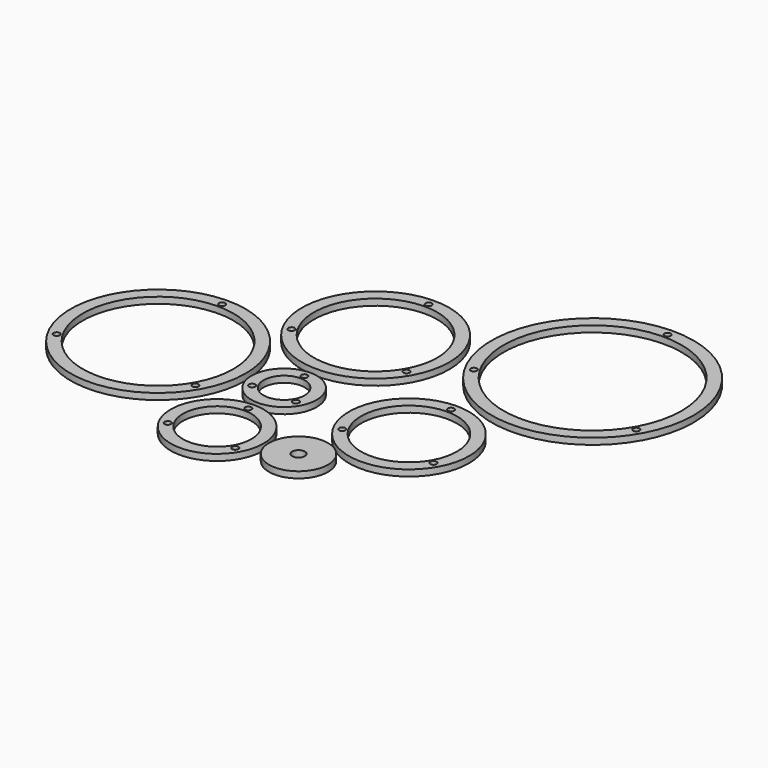
from build123d import *

# Parameters (mm, degrees)
F0_R     = 14
F0_R_2   = 3
F0_R_3   = 22
F0_R_4   = 1.5
F0_R_5   = 16.25
F0_R_6   = 41.5
F0_R_7   = 35.75
F0_R_8   = 15.5
F0_R_9   = 9.75
F0_R_10  = 28.5
F0_R_11  = 22.75
F0_R_12  = 35
F0_R_13  = 29.25
F0_R_14  = 48
F0_R_15  = 42.25
F1_DEPTH = 3


with BuildPart() as f1:
    # F0 (on Top) → F1 (new body)
    with BuildSketch(Plane.XY):
        with Locations((37.288688, -38.067583)):
            Circle(F0_R)
        with Locations((37.288688, -38.067583)):
            Circle(F0_R_2, mode=Mode.SUBTRACT)
        with Locations((0, -39.74187)):
            Circle(F0_R_3)
        with Locations((-16.02147, -48.99187)):
            Circle(F0_R_4, mode=Mode.SUBTRACT)
        with Locations((0, -39.74187)):
            Circle(F0_R_5, mode=Mode.SUBTRACT)
        with Locations((0, -21.24187)):
            Circle(F0_R_4, mode=Mode.SUBTRACT)
        with Locations((16.02147, -48.99187)):
            Circle(F0_R_4, mode=Mode.SUBTRACT)
        with Locations((-59.803776, 0)):
            Circle(F0_R_6)
        with Locations((-92.712742, -19)):
            Circle(F0_R_4, mode=Mode.SUBTRACT)
        with Locations((-26.894811, -19)):
            Circle(F0_R_4, mode=Mode.SUBTRACT)
        with Locations((-59.803776, 0)):
            Circle(F0_R_7, mode=Mode.SUBTRACT)
        with Locations((-59.803776, 38)):
            Circle(F0_R_4, mode=Mode.SUBTRACT)
        Circle(F0_R_8)
        with Locations((-10.392305, -6)):
            Circle(F0_R_4, mode=Mode.SUBTRACT)
        with Locations((10.392305, -6)):
            Circle(F0_R_4, mode=Mode.SUBTRACT)
        Circle(F0_R_9, mode=Mode.SUBTRACT)
        with Locations((0, 12)):
            Circle(F0_R_4, mode=Mode.SUBTRACT)
        with Locations((59.236389, 0)):
            Circle(F0_R_10)
        with Locations((37.585754, -12.5)):
            Circle(F0_R_4, mode=Mode.SUBTRACT)
        with Locations((59.236389, 0)):
            Circle(F0_R_11, mode=Mode.SUBTRACT)
        with Locations((59.236389, 25)):
            Circle(F0_R_4, mode=Mode.SUBTRACT)
        with Locations((80.887024, -12.5)):
            Circle(F0_R_4, mode=Mode.SUBTRACT)
        with Locations((0, 54.245155)):
            Circle(F0_R_12)
        with Locations((-27.2798, 38.495155)):
            Circle(F0_R_4, mode=Mode.SUBTRACT)
        with Locations((0, 54.245155)):
            Circle(F0_R_13, mode=Mode.SUBTRACT)
        with Locations((0, 85.745155)):
            Circle(F0_R_4, mode=Mode.SUBTRACT)
        with Locations((27.2798, 38.495155)):
            Circle(F0_R_4, mode=Mode.SUBTRACT)
        with Locations((84.318407, 77.570006)):
            Circle(F0_R_14)
        with Locations((45.780276, 55.320006)):
            Circle(F0_R_4, mode=Mode.SUBTRACT)
        with Locations((122.856537, 55.320006)):
            Circle(F0_R_4, mode=Mode.SUBTRACT)
        with Locations((84.318407, 77.570006)):
            Circle(F0_R_15, mode=Mode.SUBTRACT)
        with Locations((84.318407, 122.070006)):
            Circle(F0_R_4, mode=Mode.SUBTRACT)
    extrude(amount=F1_DEPTH)


solid = f1.part
